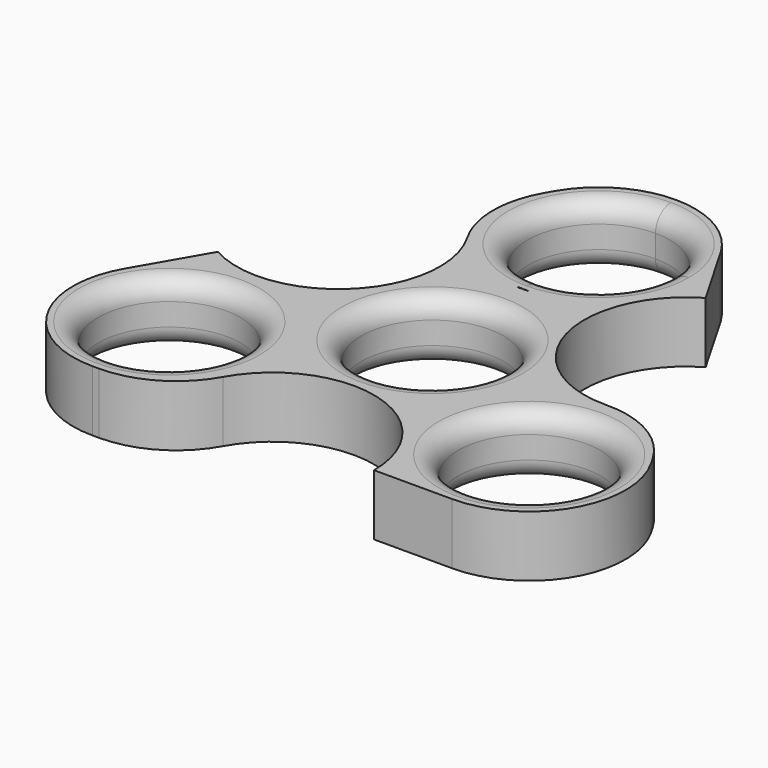
from build123d import *

# Parameters (mm, degrees)
F0_R     = 11.074
F1_DEPTH = 9.5
F2_R     = 15
F3_R     = 3


with BuildPart() as f1:
    # F0 (on Top) → F1 (new body)
    with BuildSketch(Plane.XY):
        with BuildLine():
            ThreePointArc((12.830565, 40.147924), (7.363696, 45.446002), (0, 47.377909))
            ThreePointArc((0, 47.377909), (-7.363696, 45.446002), (-12.830565, 40.147924))
            Line((-12.830565, 40.147924), (-13.143266, 39.606383))
            Line((-13.143266, 39.606383), (-19.08355, 29.318889))
            ThreePointArc((-19.08355, 29.318889), (-13.515361, 7.804144), (-34.932461, 1.871455))
            Line((-34.932461, 1.871455), (-41.030037, -8.68844))
            ThreePointArc((-41.030037, -8.68844), (-41.030691, -23.688577), (-28.040299, -31.188835))
            Line((-28.040299, -31.188835), (-15.8496, -31.188835))
            ThreePointArc((-15.8496, -31.188835), (0, -15.339235), (15.8496, -31.188835))
            Line((15.8496, -31.188835), (28.040299, -31.188835))
            ThreePointArc((28.040299, -31.188835), (41.030691, -23.688577), (41.030037, -8.68844))
            Line((41.030037, -8.68844), (34.855876, 2.004086))
            ThreePointArc((34.855876, 2.004086), (13.204645, 7.804168), (19.004726, 29.455398))
            Line((19.004726, 29.455398), (13.143266, 39.606383))
            Line((13.143266, 39.606383), (12.830565, 40.147924))
        make_face()
        with Locations((-28.040299, -16.189075)):
            Circle(F0_R, mode=Mode.SUBTRACT)
        Circle(F0_R, mode=Mode.SUBTRACT)
        with Locations((28.040299, -16.189075)):
            Circle(F0_R, mode=Mode.SUBTRACT)
        with BuildLine():
            ThreePointArc((-1.007316, 17.412249), (-0.503868, 17.434082), (0, 17.441362))
            ThreePointArc((0, 17.441362), (0.503868, 17.434082), (1.007316, 17.412249))
            ThreePointArc((1.007316, 17.412249), (0, 17.378388), (-1.007316, 17.412249))
        make_face(mode=Mode.SUBTRACT)
        with BuildLine():
            ThreePointArc((0, 21.304148), (-11.074, 32.378148), (0, 43.452148))
            ThreePointArc((0, 43.452148), (7.8305, 40.208649), (11.074, 32.378148))
            ThreePointArc((11.074, 32.378148), (7.8305, 24.547648), (0, 21.304148))
        make_face(mode=Mode.SUBTRACT)
        with BuildLine():
            ThreePointArc((13.143266, 39.606383), (12.989738, 39.878783), (12.830565, 40.147924))
            Line((12.830565, 40.147924), (13.143266, 39.606383))
        make_face()
        with BuildLine():
            Line((-13.143266, 39.606383), (-12.830565, 40.147924))
            ThreePointArc((-12.830565, 40.147924), (-12.989738, 39.878783), (-13.143266, 39.606383))
        make_face()
    extrude(amount=F1_DEPTH)

    # F2
    f2_edges = [f1.edges().sort_by_distance(p)[0] for p in [
        (34.855876, 2.004086, 4.75),
        (-19.08355, 29.318889, 4.75),
        (-15.8496, -31.188835, 4.75),
    ]]
    fillet(f2_edges, radius=F2_R)

    # F3
    f3_edges = [f1.edges().sort_by_distance(p)[0] for p in [
        (-11.074, 0, 9.5),
        (-39.114299, -16.189075, 9.5),
        (0, 21.304148, 9.5),
        (16.966299, -16.189075, 9.5),
        (0, 21.304148, 0),
        (-39.114299, -16.189075, 0),
        (-11.074, 0, 0),
        (16.966299, -16.189075, 0),
    ]]
    fillet(f3_edges, radius=F3_R)


solid = f1.part
